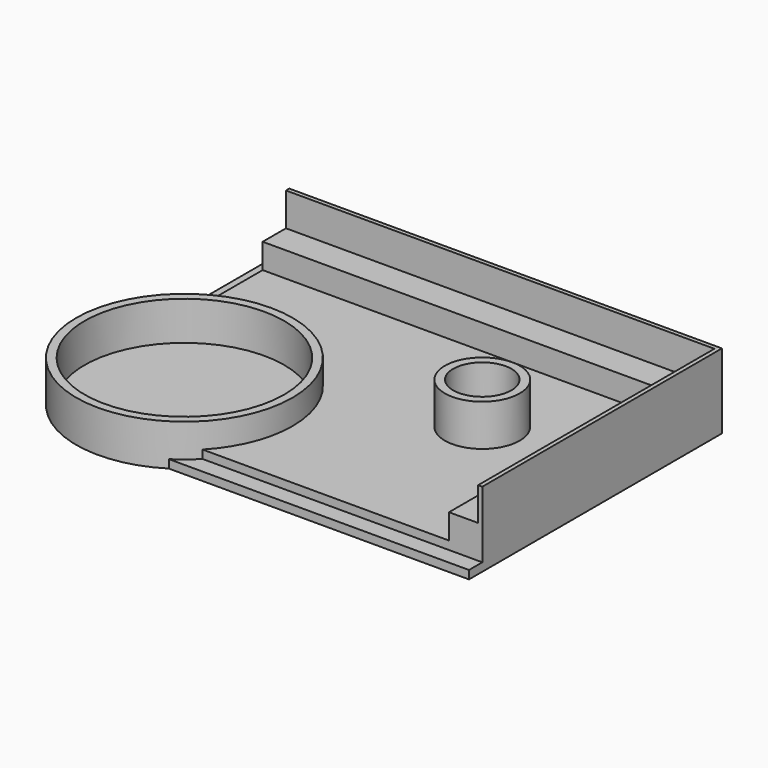
from build123d import *

# Parameters (mm, degrees)
F1_DEPTH  = 304.8
F2_W      = 609.6
F2_H      = 609.6
F2_W_2    = 7315.2
F2_H_2    = 4876.8
F3_DEPTH  = 457.2
F4_W      = 7848.6
F4_H      = 76.2
F4_W_2    = 76.2
F4_H_2    = 5410.2
F5_DEPTH  = 609.6
F6_W      = 304.8
F6_H      = 3539.064786
F6_W_2    = 6231.79084
F6_H_2    = 304.8
F7_DEPTH  = 152.4
F8_R      = 1981.2
F9_DEPTH  = 1371.601
F10_R     = 1981.2
F11_DEPTH = 762
F12_R     = 1828.8
F13_DEPTH = 711.2
F14_R     = 685.8
F14_R_2   = 533.4
F15_DEPTH = 762
F16_R     = 533.4
F17_DEPTH = 228.6


with BuildPart() as f1:
    # F0 (on Top) → F1 (new body)
    with BuildSketch(Plane.XY):
        Polygon((4876.8, 2438.4), (-3048, 2438.4), (-3048, -304.8), (-304.8, -3048), (4876.8, -3048), align=None)
    extrude(amount=F1_DEPTH)

    # F2 (on face) → F3 (join)
    with BuildSketch(Plane.XY.offset(304.8)):
        with Locations((4572, 2133.6)):
            Rectangle(F2_W, F2_H)
        with Locations((609.6, 2133.6)):
            Rectangle(F2_W_2, F2_H)
        with Locations((4572, -609.6)):
            Rectangle(F2_W, F2_H_2)
    extrude(amount=F3_DEPTH)

    # F4 (on face) → F5 (join)
    with BuildSketch(Plane.XY.offset(762)):
        with Locations((876.3, 2400.3)):
            Rectangle(F4_W, F4_H)
        with Locations((4838.7, 2400.3)):
            Rectangle(F4_W_2, F4_H)
        with Locations((4838.7, -342.9)):
            Rectangle(F4_W_2, F4_H_2)
    extrude(amount=F5_DEPTH)

    # F6 (on Top) → F7 (join)
    with BuildSketch(Plane.XY):
        with Locations((-3200.4, 668.867607)):
            Rectangle(F6_W, F6_H)
        with Locations((1760.90458, -3200.4)):
            Rectangle(F6_W_2, F6_H_2)
    extrude(amount=F7_DEPTH)

    # F8 (on Top) → F9 (cut, through all)
    with BuildSketch(Plane.XY):
        with Locations((-1676.4, -1676.4)):
            Circle(F8_R)
    extrude(amount=F9_DEPTH, mode=Mode.SUBTRACT)

    # F10 (on Top) → F11 (join)
    with BuildSketch(Plane.XY):
        with Locations((-1676.4, -1676.4)):
            Circle(F10_R)
    extrude(amount=F11_DEPTH)

    # F12 (on face) → F13 (cut)
    with BuildSketch(Plane.XY.offset(762)):
        with Locations((-1676.4, -1676.4)):
            Circle(F12_R)
    extrude(amount=-F13_DEPTH, mode=Mode.SUBTRACT)

    # F14 (on face) → F15 (join)
    with BuildSketch(Plane.XY.offset(304.8)):
        with Locations((2438.4, 0)):
            Circle(F14_R)
        with Locations((2438.4, 0)):
            Circle(F14_R_2, mode=Mode.SUBTRACT)
    extrude(amount=F15_DEPTH)

    # F16 (on face) → F17 (cut)
    with BuildSketch(Plane.XY.offset(304.8)):
        with Locations((2438.4, 0)):
            Circle(F16_R)
    extrude(amount=-F17_DEPTH, mode=Mode.SUBTRACT)


solid = f1.part
